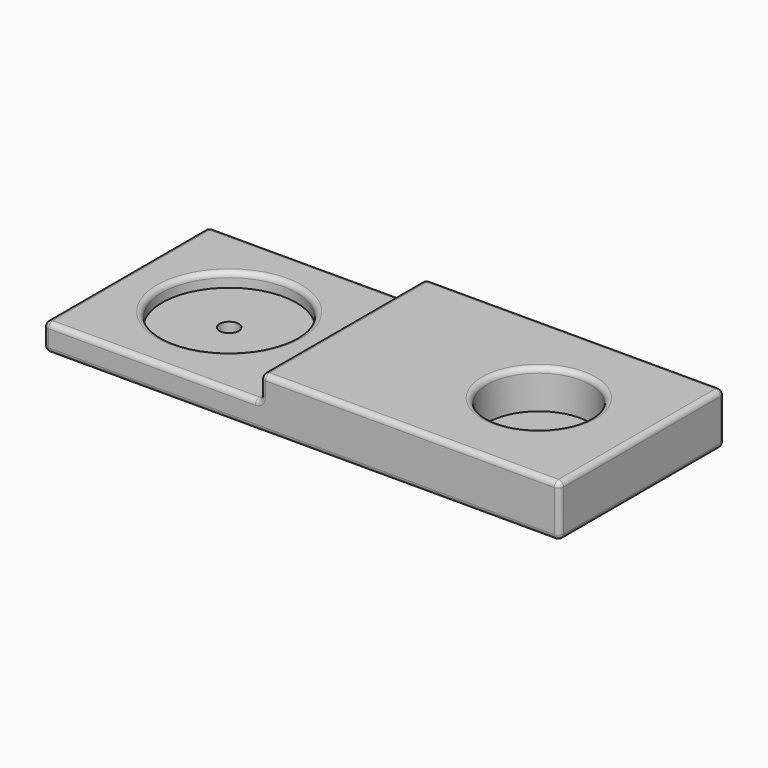
from build123d import *

# Parameters (mm, degrees)
F0_W     = 254
F0_H     = 101.6
F0_R     = 4.7625
F1_DEPTH = 25.4
F2_R     = 33.02
F2_R_2   = 4.7625
F2_R_3   = 25.4
F3_DEPTH = 19.05
F4_W     = 106.8471033573
F4_H     = 12.1652636021
F5_DEPTH = 101.601
F6_R     = 2.54


with BuildPart() as f1:
    # F0 (on Top) → F1 (new body)
    with BuildSketch(Plane.XY):
        Rectangle(F0_W, F0_H)
        with Locations((-76.2, 0)):
            Circle(F0_R, mode=Mode.SUBTRACT)
        with Locations((76.2, 0)):
            Circle(F0_R, mode=Mode.SUBTRACT)
    extrude(amount=F1_DEPTH)

    # F2 (on face) → F3 (cut)
    with BuildSketch(Plane.XY.offset(25.4)):
        with Locations((-76.2, 0)):
            Circle(F2_R)
        with Locations((-76.2, 0)):
            Circle(F2_R_2, mode=Mode.SUBTRACT)
        with Locations((76.2, 0)):
            Circle(F2_R_3)
        with Locations((76.2, 0)):
            Circle(F2_R_2, mode=Mode.SUBTRACT)
    extrude(amount=-F3_DEPTH, mode=Mode.SUBTRACT)

    # F4 (on face) → F5 (cut, through all)
    with BuildSketch(Plane.XZ.offset(50.8)):
        Polygon((-138.9647424221, 56.2476329505), (-157.312899828, 13.2347363979), (-127, 13.2347363979), (-127, 25.4), (-20.1528966427, 25.4), (-20.1528966427, 66.1736875772), align=None)
        with Locations((-73.5764483213, 19.3173681989)):
            Rectangle(F4_W, F4_H)
    extrude(amount=-F5_DEPTH, mode=Mode.SUBTRACT)

    # F6
    f6_edges = [f1.edges().sort_by_distance(p)[0] for p in [
        (-73.576448, -50.8, 13.234736),
        (53.423552, -50.8, 25.4),
        (-20.152897, -50.8, 19.317368),
        (127, -50.8, 12.7),
        (0, -50.8, 0),
        (127, 0, 25.4),
        (127, 50.8, 12.7),
        (127, 0, 0),
        (53.423552, 50.8, 25.4),
        (-20.152897, 0, 25.4),
        (50.8, 0, 25.4),
        (-109.22, 0, 13.234736),
        (-20.152897, 50.8, 19.317368),
        (-73.576448, 50.8, 13.234736),
        (0, 50.8, 0),
        (-127, 0, 0),
        (-127, -50.8, 6.617368),
        (-127, 0, 13.234736),
        (-127, 50.8, 6.617368),
        (-20.152897, 0, 13.234736),
    ]]
    fillet(f6_edges, radius=F6_R)


solid = f1.part
